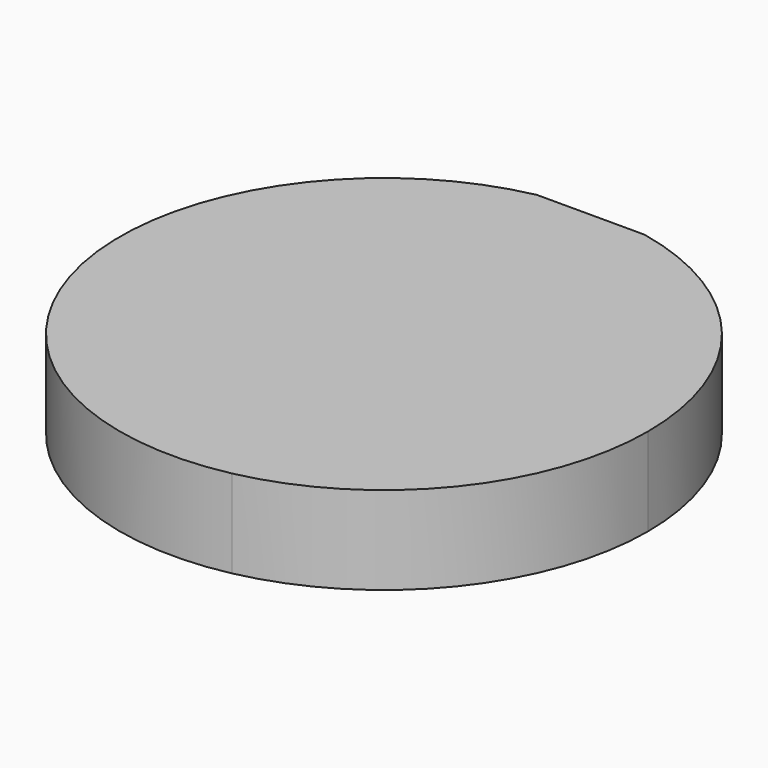
from build123d import *

# Parameters (mm, degrees)
F1_DEPTH = 25.4


with BuildPart() as f1:
    # F0 (on Top) → F1 (new body)
    with BuildSketch(Plane.XY):
        with BuildLine():
            Line((-15.537605658, -74.5480572665), (-15.537605658, 74.5990804931))
            ThreePointArc((-15.537605658, 74.5990804931), (-74.5736678483, -15.6591207816), (15.780594342, -74.5480572665))
            Line((15.780594342, -74.5480572665), (-15.537605658, -74.5480572665))
        make_face()
        with BuildLine():
            Line((15.537605658, 74.5990804931), (-15.537605658, 74.5990804931))
            Line((-15.537605658, 74.5990804931), (-15.537605658, -74.5480572665))
            Line((-15.537605658, -74.5480572665), (15.780594342, -74.5480572665))
            Line((15.780594342, -74.5480572665), (15.780594342, 74.5480572665))
            ThreePointArc((15.780594342, 74.5480572665), (15.6591207816, 74.5736678483), (15.537605658, 74.5990804931))
        make_face()
        with BuildLine():
            Line((15.780594342, 74.5480572665), (15.780594342, -74.5480572665))
            ThreePointArc((15.780594342, -74.5480572665), (59.1984851532, -47.9789470036), (76.2, 0))
            ThreePointArc((76.2, 0), (59.1984851532, 47.9789470036), (15.780594342, 74.5480572665))
        make_face()
    extrude(amount=F1_DEPTH)


solid = f1.part
